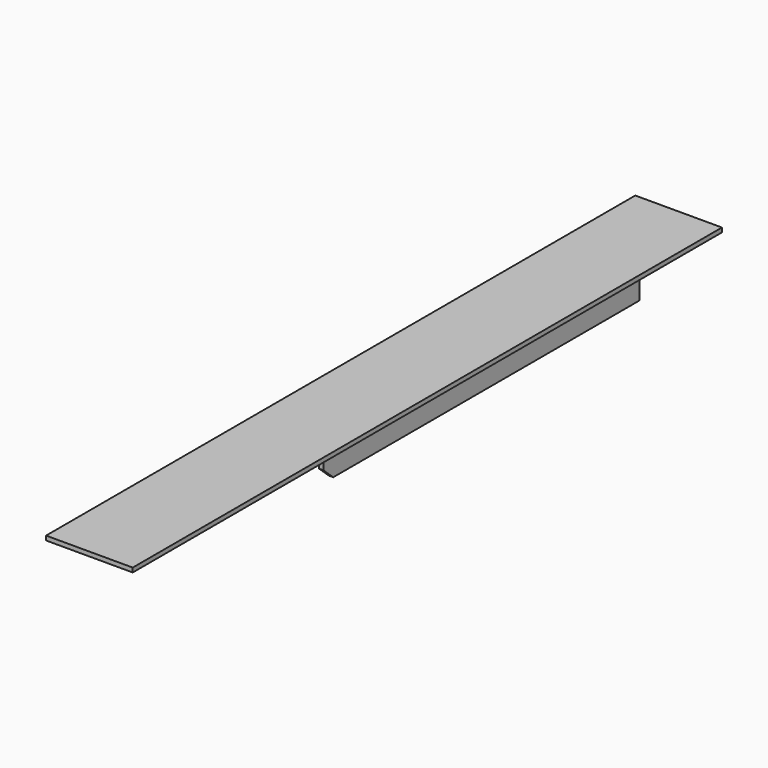
from build123d import *

# Parameters (mm, degrees)
F0_W      = 50.8
F0_H      = 431.8
F1_DEPTH  = 2.54
F2_W      = 2.54
F2_H      = 431.8
F3_DEPTH  = 50.8
F5_DEPTH  = 25.4
F7_DEPTH  = 25.4
F9_DEPTH  = 25.4
F11_DEPTH = 25.4


with BuildPart() as f1:
    # F0 (on Top) → F1 (new body)
    with BuildSketch(Plane.XY):
        with Locations((-30.644535, -61.478847)):
            Rectangle(F0_W, F0_H)
    extrude(amount=F1_DEPTH)

    # F2 (on face) → F3 (join)
    with BuildSketch(Plane(origin=(0, 0, 0), x_dir=(1, 0, 0), z_dir=(0, 0, -1))):
        with Locations((-54.774535, 61.478847)):
            Rectangle(F2_W, F2_H)
    extrude(amount=F3_DEPTH)

    # F4 (on face) → F5 (cut)
    with BuildSketch(Plane(origin=(-56.044535, 0, 0), x_dir=(0, -1, 0), z_dir=(-1, 0, 0))):
        Polygon((277.378847, -50.8), (277.378847, -10.16), (143.720774, -50.8), align=None)
    extrude(amount=-F5_DEPTH, mode=Mode.SUBTRACT)

    # F6 (on face) → F7 (cut)
    with BuildSketch(Plane(origin=(-56.044535, 0, 0), x_dir=(0, -1, 0), z_dir=(-1, 0, 0))):
        Polygon((77.323876, 0), (77.323876, -50.8), (143.720774, -50.8), (277.378847, -10.16), (277.378847, 0), align=None)
    extrude(amount=-F7_DEPTH, mode=Mode.SUBTRACT)

    # F8 (on face) → F9 (cut)
    with BuildSketch(Plane(origin=(-56.044535, 0, 0), x_dir=(0, -1, 0), z_dir=(-1, 0, 0))):
        Polygon((77.323876, -50.8), (77.323876, -45.654178), (71.64523, -50.8), align=None)
    extrude(amount=-F9_DEPTH, mode=Mode.SUBTRACT)

    # F10 (on face) → F11 (cut)
    with BuildSketch(Plane(origin=(-56.044535, 0, 0), x_dir=(0, -1, 0), z_dir=(-1, 0, 0))):
        Polygon((77.323876, -44.246497), (70.091791, -50.8), (71.64523, -50.8), (77.323876, -45.654178), align=None)
    extrude(amount=-F11_DEPTH, mode=Mode.SUBTRACT)


solid = f1.part
